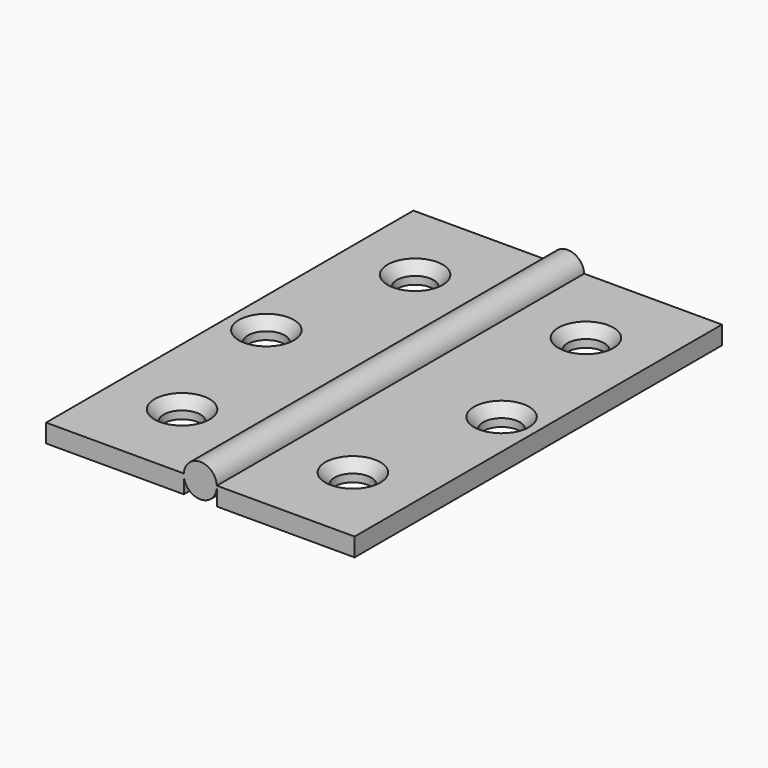
from build123d import *

# Parameters (mm, degrees)
F0_W           = 19.05
F0_H           = 63.5
F1_DEPTH       = 2.54
F3_DEPTH       = 63.5
F5_D           = 5.08
F5_CSINK_D     = 7.62
F5_CSINK_ANGLE = 82


with BuildPart() as f1:
    # F0 (on Top) → F1 (new body)
    with BuildSketch(Plane.XY):
        with Locations((-45.6372228205, 17.373234883)):
            Rectangle(F0_W, F0_H)
    extrude(amount=F1_DEPTH)



with BuildPart() as f1b:
    # F0 (on Top) → F1, piece 2 (new body)
    with BuildSketch(Plane.XY):
        with Locations((-22.0152228205, 17.373234883)):
            Rectangle(F0_W, F0_H)
    extrude(amount=F1_DEPTH)


with BuildPart() as f1_1:
    add(f1.part)

    add(f1b.part)  # F3 merges F1b
    # F2 (on face) → F3 (join)
    with BuildSketch(Plane(origin=(0, 49.123234883, 0), x_dir=(-1, 0, 0), z_dir=(0, 1, 0))):
        with BuildLine():
            Line((31.5402228205, 2.54), (31.5402228205, 2.2870220252))
            ThreePointArc((31.5402228205, 2.2870220252), (33.8262228205, 0.1240142417), (36.1122228205, 2.2870220252))
            Line((36.1122228205, 2.2870220252), (36.1122228205, 2.54))
            ThreePointArc((36.1122228205, 2.54), (33.8262228205, 4.7030077835), (31.5402228205, 2.54))
        make_face()
    extrude(amount=-F3_DEPTH)

    # F5 (through all)
    with Locations(Plane.XY.offset(2.54)):
        with Locations((-45.6372228205, -2.7734471262), (-22.0152228205, -2.7734471262), (-17.5702228205, 17.373234883), (-50.0948168337, 17.373234883), (-45.6372228205, 37.5199168921), (-22.0152228205, 37.5199168921)):
            CounterSinkHole(F5_D / 2, F5_CSINK_D / 2, counter_sink_angle=F5_CSINK_ANGLE)


solid = f1_1.part
